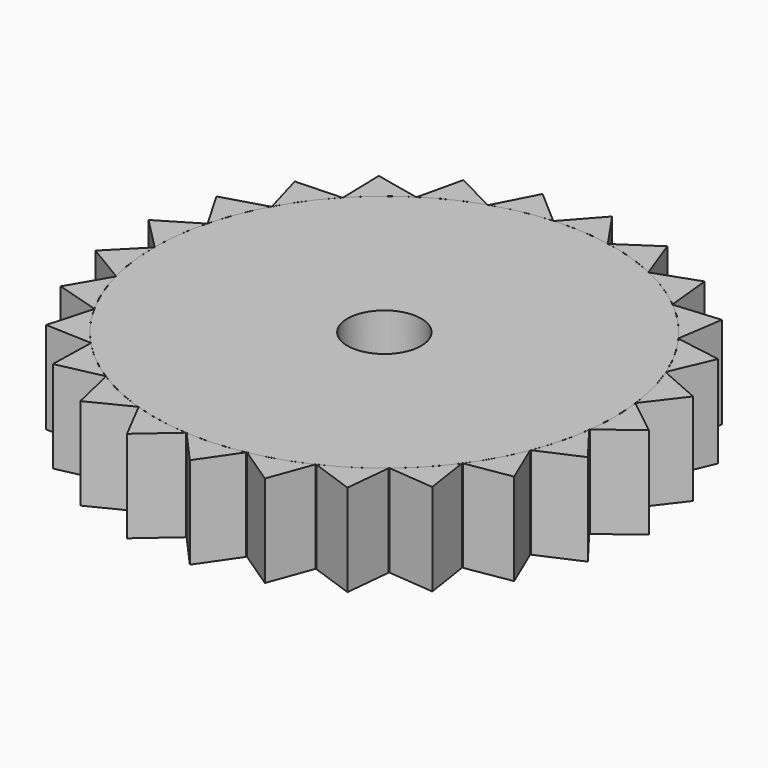
from build123d import *

# Parameters (mm, degrees)
F0_R     = 63.5
F1_DEPTH = 12.7
F2_R     = 10.190653
F3_DEPTH = 25.4
F5_DEPTH = 25.4
F6_COUNT = 25


with BuildPart() as f1:
    # F0 (on Top) → F1 (new body, symmetric)
    with BuildSketch(Plane.XY):
        Circle(F0_R)
    extrude(amount=F1_DEPTH, both=True)

    # F2 (on face) → F3 (cut, through all)
    with BuildSketch(Plane.XY.offset(12.7)):
        Circle(F2_R)
    extrude(amount=-F3_DEPTH, mode=Mode.SUBTRACT)


with BuildPart() as f5:
    # F4 (on face) → F5 (new body, through all)
    with BuildSketch(Plane.XY.offset(12.7)):
        with BuildLine():
            ThreePointArc((63.013158, 7.848056), (63.5, 0), (63.013158, -7.848056))
            Line((63.013158, -7.848056), (72.998047, 0))
            Line((72.998047, 0), (63.013158, 7.848056))
        make_face()
    extrude(amount=-F5_DEPTH)


with BuildPart() as f6_1:
    # F6: instance of F5
    add(f5.part.rotate(Axis((0, 0, 12.7), (0, 0, 1)), 1 * 360 / F6_COUNT))


with BuildPart() as f6_2:
    # F6: instance of F5
    add(f5.part.rotate(Axis((0, 0, 12.7), (0, 0, 1)), 2 * 360 / F6_COUNT))


with BuildPart() as f6_3:
    # F6: instance of F5
    add(f5.part.rotate(Axis((0, 0, 12.7), (0, 0, 1)), 3 * 360 / F6_COUNT))


with BuildPart() as f6_4:
    # F6: instance of F5
    add(f5.part.rotate(Axis((0, 0, 12.7), (0, 0, 1)), 4 * 360 / F6_COUNT))


with BuildPart() as f6_5:
    # F6: instance of F5
    add(f5.part.rotate(Axis((0, 0, 12.7), (0, 0, 1)), 5 * 360 / F6_COUNT))


with BuildPart() as f6_6:
    # F6: instance of F5
    add(f5.part.rotate(Axis((0, 0, 12.7), (0, 0, 1)), 6 * 360 / F6_COUNT))


with BuildPart() as f6_7:
    # F6: instance of F5
    add(f5.part.rotate(Axis((0, 0, 12.7), (0, 0, 1)), 7 * 360 / F6_COUNT))


with BuildPart() as f6_8:
    # F6: instance of F5
    add(f5.part.rotate(Axis((0, 0, 12.7), (0, 0, 1)), 8 * 360 / F6_COUNT))


with BuildPart() as f6_9:
    # F6: instance of F5
    add(f5.part.rotate(Axis((0, 0, 12.7), (0, 0, 1)), 9 * 360 / F6_COUNT))


with BuildPart() as f6_10:
    # F6: instance of F5
    add(f5.part.rotate(Axis((0, 0, 12.7), (0, 0, 1)), 10 * 360 / F6_COUNT))


with BuildPart() as f6_11:
    # F6: instance of F5
    add(f5.part.rotate(Axis((0, 0, 12.7), (0, 0, 1)), 11 * 360 / F6_COUNT))


with BuildPart() as f6_12:
    # F6: instance of F5
    add(f5.part.rotate(Axis((0, 0, 12.7), (0, 0, 1)), 12 * 360 / F6_COUNT))


with BuildPart() as f6_13:
    # F6: instance of F5
    add(f5.part.rotate(Axis((0, 0, 12.7), (0, 0, 1)), 13 * 360 / F6_COUNT))


with BuildPart() as f6_14:
    # F6: instance of F5
    add(f5.part.rotate(Axis((0, 0, 12.7), (0, 0, 1)), 14 * 360 / F6_COUNT))


with BuildPart() as f6_15:
    # F6: instance of F5
    add(f5.part.rotate(Axis((0, 0, 12.7), (0, 0, 1)), 15 * 360 / F6_COUNT))


with BuildPart() as f6_16:
    # F6: instance of F5
    add(f5.part.rotate(Axis((0, 0, 12.7), (0, 0, 1)), 16 * 360 / F6_COUNT))


with BuildPart() as f6_17:
    # F6: instance of F5
    add(f5.part.rotate(Axis((0, 0, 12.7), (0, 0, 1)), 17 * 360 / F6_COUNT))


with BuildPart() as f6_18:
    # F6: instance of F5
    add(f5.part.rotate(Axis((0, 0, 12.7), (0, 0, 1)), 18 * 360 / F6_COUNT))


with BuildPart() as f6_19:
    # F6: instance of F5
    add(f5.part.rotate(Axis((0, 0, 12.7), (0, 0, 1)), 19 * 360 / F6_COUNT))


with BuildPart() as f6_20:
    # F6: instance of F5
    add(f5.part.rotate(Axis((0, 0, 12.7), (0, 0, 1)), 20 * 360 / F6_COUNT))


with BuildPart() as f6_21:
    # F6: instance of F5
    add(f5.part.rotate(Axis((0, 0, 12.7), (0, 0, 1)), 21 * 360 / F6_COUNT))


with BuildPart() as f6_22:
    # F6: instance of F5
    add(f5.part.rotate(Axis((0, 0, 12.7), (0, 0, 1)), 22 * 360 / F6_COUNT))


with BuildPart() as f6_23:
    # F6: instance of F5
    add(f5.part.rotate(Axis((0, 0, 12.7), (0, 0, 1)), 23 * 360 / F6_COUNT))


with BuildPart() as f6_24:
    # F6: instance of F5
    add(f5.part.rotate(Axis((0, 0, 12.7), (0, 0, 1)), 24 * 360 / F6_COUNT))


solid = Compound([f1.part, f5.part, f6_1.part, f6_2.part, f6_3.part, f6_4.part, f6_5.part, f6_6.part, f6_7.part, f6_8.part, f6_9.part, f6_10.part, f6_11.part, f6_12.part, f6_13.part, f6_14.part, f6_15.part, f6_16.part, f6_17.part, f6_18.part, f6_19.part, f6_20.part, f6_21.part, f6_22.part, f6_23.part, f6_24.part])
